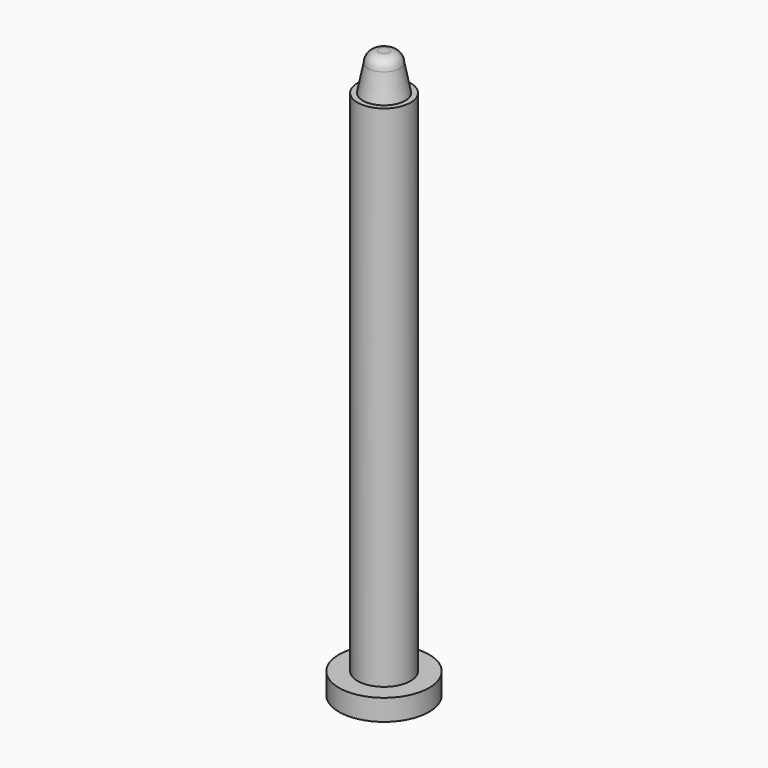
from build123d import *

# Parameters (mm, degrees)
F0_R     = 8.5
F1_DEPTH = 4
F2_R     = 5
F3_DEPTH = 100


with BuildPart() as f1:
    # F0 (on Top) → F1 (new body)
    with BuildSketch(Plane.XY):
        Circle(F0_R)
    extrude(amount=F1_DEPTH)

    # F2 (on Top) → F3 (join)
    with BuildSketch(Plane.XY):
        Circle(F2_R)
    extrude(amount=F3_DEPTH)

    # F4 (on Right) → F5 (revolve)
    with BuildSketch(Plane.YZ):
        Polygon((3, 105), (0, 105), (0, 100), (4, 100), align=None)
    revolve(axis=Axis((0, 0, 102.5), (0, 0, -1)))

    # F6 (on Right) → F7 (revolve)
    with BuildSketch(Plane.YZ):
        with BuildLine():
            Line((1, 107), (0, 107))
            Line((0, 107), (0, 105))
            Line((0, 105), (3, 105))
            ThreePointArc((3, 105), (2.414214, 106.414214), (1, 107))
        make_face()
    revolve(axis=Axis((0, 0, 106), (0, 0, -1)))


solid = f1.part
